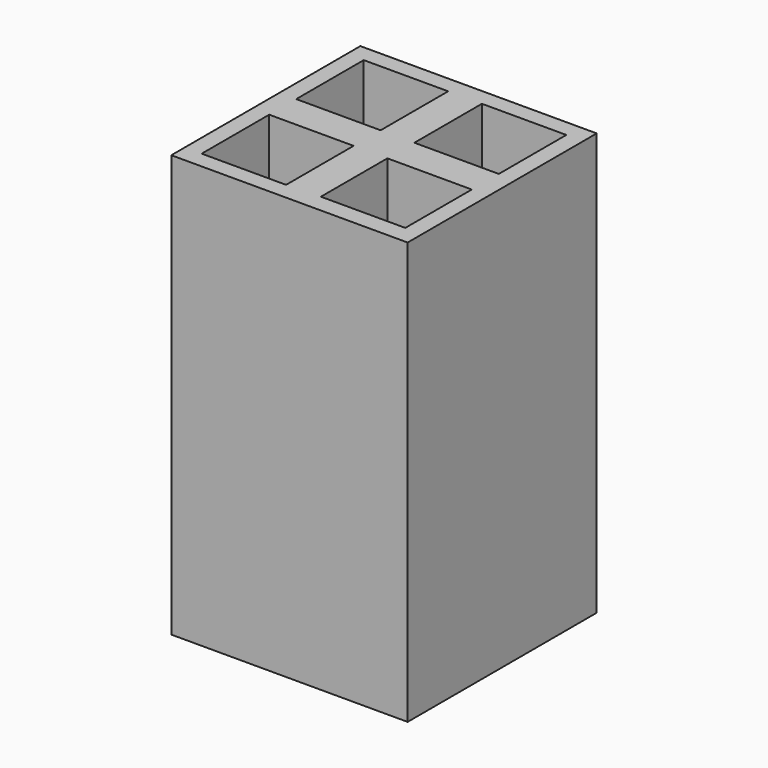
from build123d import *

# Parameters (mm, degrees)
SKETCH_W   = 140
SKETCH_H   = 140
SKETCH_W_2 = 50
SKETCH_H_2 = 50
SKETCH_H_3 = 49.222713
PAD_DEPTH  = 250


with BuildPart() as part:
    # Sketch → Pad (new body)
    with BuildSketch(Plane.XY):
        Rectangle(SKETCH_W, SKETCH_H)
        with Locations((-35, 35)):
            Rectangle(SKETCH_W_2, SKETCH_H_2, mode=Mode.SUBTRACT)
        with Locations((35, 35)):
            Rectangle(SKETCH_W_2, SKETCH_H_2, mode=Mode.SUBTRACT)
        with Locations((-35, -35)):
            Rectangle(SKETCH_W_2, SKETCH_H_2, mode=Mode.SUBTRACT)
        with Locations((35, -34.611356)):
            Rectangle(SKETCH_W_2, SKETCH_H_3, mode=Mode.SUBTRACT)
    extrude(amount=PAD_DEPTH)


solid = part.part
